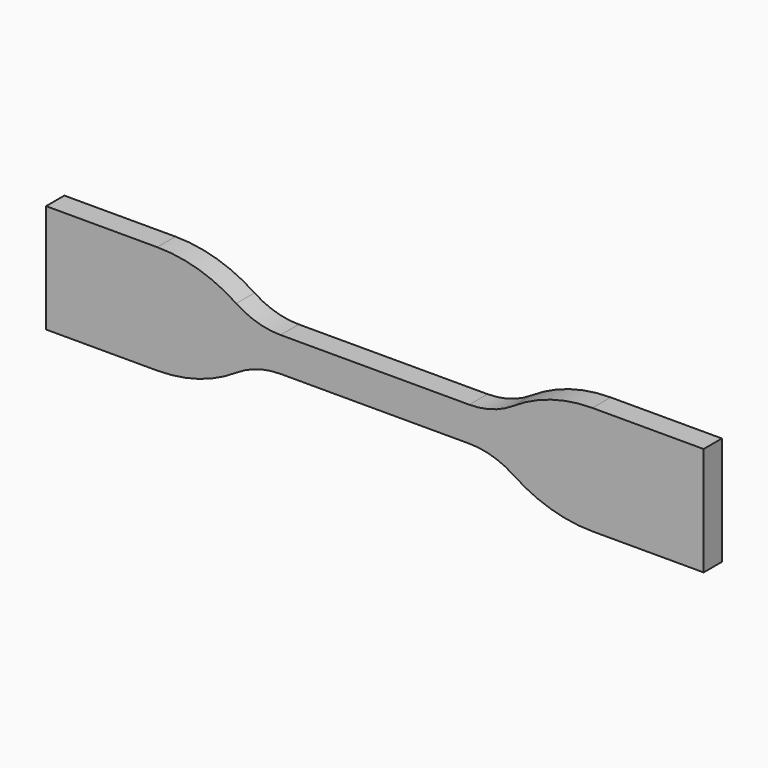
from build123d import *

# Parameters (mm, degrees)
F1_DEPTH = 4


with BuildPart() as f1:
    # F0 (on Front) → F1 (new body)
    with BuildSketch(Plane.XZ):
        with BuildLine():
            Line((16.4973, 2.9972), (0, 2.9972))
            Line((0, 2.9972), (-16.4973, 2.9972))
            ThreePointArc((-16.4973, 2.9972), (-20.53874, 3.593421), (-24.235839, 5.331286))
            ThreePointArc((-24.235839, 5.331286), (-30.838281, 8.434842), (-38.055661, 9.4996))
            Line((-38.055661, 9.4996), (-57.486661, 9.4996))
            Line((-57.486661, 9.4996), (-57.486661, -9.4996))
            Line((-57.486661, -9.4996), (-38.055661, -9.4996))
            ThreePointArc((-38.055661, -9.4996), (-30.838281, -8.434842), (-24.235839, -5.331286))
            ThreePointArc((-24.235839, -5.331286), (-20.53874, -3.593421), (-16.4973, -2.9972))
            Line((-16.4973, -2.9972), (0, -2.9972))
            Line((0, -2.9972), (16.4973, -2.9972))
            ThreePointArc((16.4973, -2.9972), (20.53874, -3.593421), (24.235839, -5.331286))
            ThreePointArc((24.235839, -5.331286), (30.838281, -8.434842), (38.055661, -9.4996))
            Line((38.055661, -9.4996), (57.486661, -9.4996))
            Line((57.486661, -9.4996), (57.486661, 9.4996))
            Line((57.486661, 9.4996), (38.055661, 9.4996))
            ThreePointArc((38.055661, 9.4996), (30.838281, 8.434842), (24.235839, 5.331286))
            ThreePointArc((24.235839, 5.331286), (20.53874, 3.593421), (16.4973, 2.9972))
        make_face()
    extrude(amount=F1_DEPTH)


solid = f1.part
